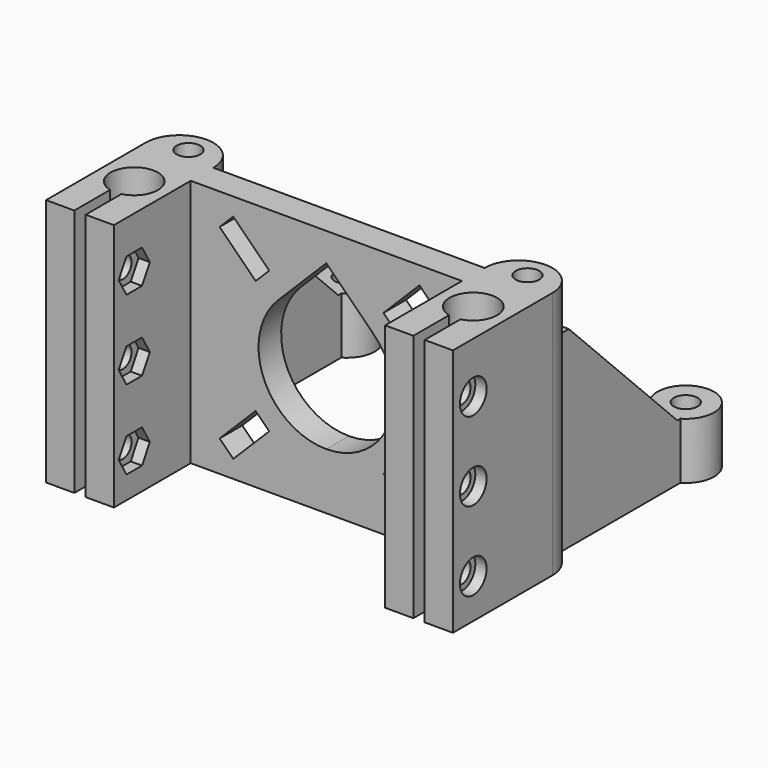
from build123d import *

# Parameters (mm, degrees)
CYLINDER_R             = 4.2
CYLINDER_DEPTH         = 46
CYLINDER001_R          = 2.1
CYLINDER001_DEPTH      = 46
SKETCH001_W            = 2
SKETCH001_H            = 14
PAD001_DEPTH           = 46
CYLINDER003_R          = 2.95
CYLINDER003_DEPTH      = 4
CYLINDER002_R          = 1.9
CYLINDER002_DEPTH      = 10
PRISM_DEPTH            = 3
FUSION_ROLL_ANGLE      = -90.000052
FUSION_PITCH_ANGLE     = -59.999967
FUSION_PLACEMENT_ANGLE = 90.000052
PAD004_DEPTH           = 10
PAD006_DEPTH           = 15
PAD_DEPTH              = 44
PAD005_DEPTH           = 34


with BuildPart() as rod_cut:
    # Cylinder → Cylinder (new body)
    with BuildSketch(Plane(origin=(-30, 0, -1), x_dir=(1, 0, 0), z_dir=(0, 0, 1))):
        Circle(CYLINDER_R)
    extrude(amount=CYLINDER_DEPTH)


with BuildPart() as top_screw_cut:
    # Cylinder001 → Cylinder001 (new body)
    with BuildSketch(Plane(origin=(-30, 12, -1), x_dir=(1, 0, 0), z_dir=(0, 0, 1))):
        Circle(CYLINDER001_R)
    extrude(amount=CYLINDER001_DEPTH)


with BuildPart() as clamps_relief_cut:
    # Sketch001 → Pad001 (new body)
    with BuildSketch(Plane.XY.offset(-1)):
        with Locations((-30, -7)):
            Rectangle(SKETCH001_W, SKETCH001_H)
    extrude(amount=PAD001_DEPTH)


with BuildPart() as cylinder001:
    # Cylinder003 → Cylinder003 (new body)
    with BuildSketch(Plane.XY.offset(10)):
        Circle(CYLINDER003_R)
    extrude(amount=CYLINDER003_DEPTH)


with BuildPart() as cylinder:
    # Cylinder002 → Cylinder002 (new body)
    with BuildSketch(Plane.XY):
        Circle(CYLINDER002_R)
    extrude(amount=CYLINDER002_DEPTH)


with BuildPart() as fusion:
    # Prism → Prism (new body)
    with BuildSketch(Plane.XY.offset(-1)):
        Polygon((3.45, 0), (1.725, 2.987788), (-1.725, 2.987788), (-3.45, 0), (-1.725, -2.987788), (1.725, -2.987788), align=None)
    extrude(amount=PRISM_DEPTH)

    # Fusion: union Cylinder001, Cylinder
    add(cylinder001.part)
    add(cylinder.part)


with BuildPart() as fusion_1:
    # Fusion roll: moved
    add(fusion.part.rotate(Axis((0, 0, 0), (1, 0, 0)), FUSION_ROLL_ANGLE))


with BuildPart() as fusion_2:
    # Fusion pitch: moved
    add(fusion_1.part.rotate(Axis((0, 0, 0), (0, 1, 0)), FUSION_PITCH_ANGLE))


with BuildPart() as fusion_3:
    # Fusion placement: moved
    add(fusion_2.part.moved(Location((-24, -7.5, 7))).rotate(Axis((-24, -7.5, 7), (0, 0, 1)), FUSION_PLACEMENT_ANGLE))


with BuildPart() as clone_of_fusion:
    # Clone base: copy of Fusion
    add(fusion_3.part)


with BuildPart() as clone_of_fusion_1:
    # Clone placement: moved
    add(clone_of_fusion.part.moved(Location((0, 0, 14))))


with BuildPart() as fusion006005:
    # Clone001 base: copy of Fusion
    add(fusion_3.part)


with BuildPart() as fusion006005_1:
    # Clone001 placement: moved
    add(fusion006005.part.moved(Location((0, 0, 28))))

    # Fusion006005: union Clone of Fusion, Fusion
    add(clone_of_fusion_1.part)
    add(fusion_3.part)


with BuildPart() as fusion006006:
    # Clone002 base: copy of Top_screw_cut
    add(top_screw_cut.part)


with BuildPart() as fusion006006_1:
    # Clone002 placement: moved
    add(fusion006006.part.moved(Location((0, 35, 0))))

    # Fusion006006: union Rod_cut, Top_screw_cut, Clamps_Relief_cut, Fusion006005
    add(rod_cut.part)
    add(top_screw_cut.part)
    add(clamps_relief_cut.part)
    add(fusion006005_1.part)


with BuildPart() as fusion006008:
    # Sketch004 → Pad004 (new body)
    with BuildSketch(Plane.XZ.offset(-4)):
        with BuildLine():
            ThreePointArc((-8.485281, 30.485281), (-2e-06, 10), (8.485284, 30.485278))
            Line((0, 38.970563), (8.485284, 30.485278))
            Line((-8.485281, 30.485281), (0, 38.970563))
        make_face()
        Polygon((-18.879751, 38.475588), (-16.475588, 40.879751), (-10.111627, 34.51579), (-12.51579, 32.111627), align=None)
        Polygon((-18.879751, 5.524412), (-12.51579, 11.888373), (-10.111627, 9.48421), (-16.475588, 3.120249), align=None)
    extrude(amount=-PAD004_DEPTH)

    # Fusion006008: union Fusion006006
    add(fusion006006_1.part)


with BuildPart() as pad006:
    # Sketch007 → Pad006 (new body)
    with BuildSketch(Plane.YZ.offset(-22)):
        Polygon((17, 35), (42, 10), (58.138325, 10), (58.138325, 51.535988), (17, 51.535988), align=None)
    extrude(amount=-PAD006_DEPTH)


with BuildPart() as idler_half_raw:
    # Sketch → Pad (new body)
    with BuildSketch(Plane.XY):
        with BuildLine():
            ThreePointArc((-24, 10), (-30, 16), (-36, 10))
            Line((-36, -12), (-36, 10))
            Line((-24, -12), (-36, -12))
            Line((-24, 5), (-24, -12))
            Line((0, 5), (-24, 5))
            Line((0, 10), (0, 5))
            Line((-24, 10), (0, 10))
        make_face()
    extrude(amount=PAD_DEPTH)


with BuildPart() as cut001:
    # Sketch005 → Pad005 (new body)
    with BuildSketch(Plane.XY):
        with BuildLine():
            Line((-27.5, 15), (-32.5, 15))
            Line((-32.5, 15), (-32.5, 42.669873))
            ThreePointArc((-27.5, 42.669873), (-30, 52), (-32.5, 42.669873))
            Line((-27.5, 42.669873), (-27.5, 15))
        make_face()
    extrude(amount=PAD005_DEPTH)

    # Fusion006007: union Idler_Half_Raw
    add(idler_half_raw.part)

    # Cut: cut Pad006
    add(pad006.part, mode=Mode.SUBTRACT)

    # Cut001: cut Fusion006008
    add(fusion006008.part, mode=Mode.SUBTRACT)


with BuildPart() as fusion006009:
    # Part__Mirroring: instance of Cut001
    add(cut001.part.mirror(Plane(origin=(0, 0, 0), x_dir=(0, -1, 0), z_dir=(1, 0, 0))))

    # Fusion006009: union Cut001
    add(cut001.part)


solid = fusion006009.part
